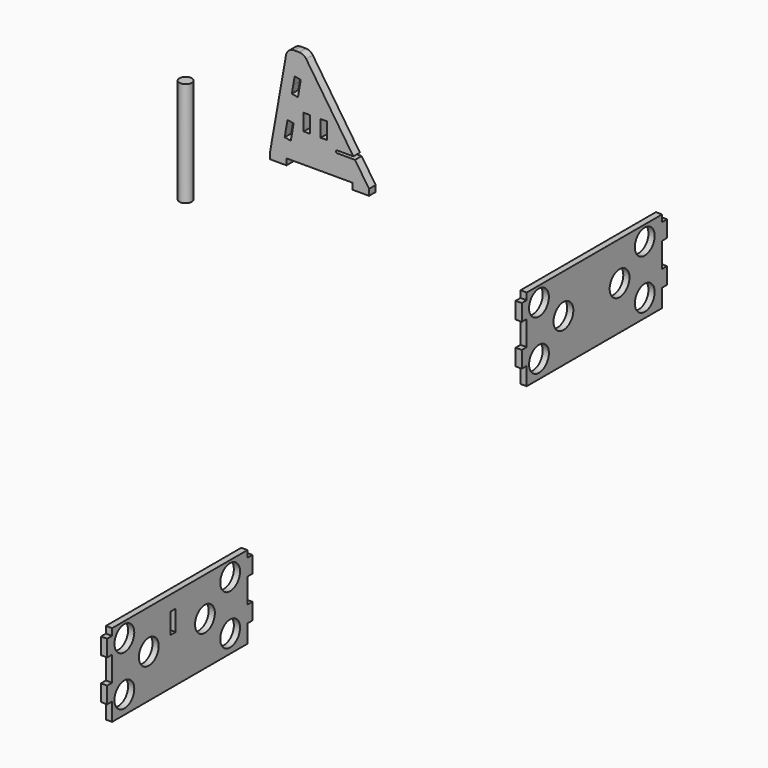
from build123d import *

# Parameters (mm, degrees)
F2_W     = 19.139648
F2_H     = 322.640807
F0_W     = 19.05
F0_H     = 50.8
F4_DEPTH = 25.4
F1_W     = 19.05
F1_H     = 25.4
F1_R     = 38.1
F1_H_2   = 63.5
F1_H_3   = 50.8
F5_DEPTH = 19.05


with BuildPart() as f3:
    # F2 (on Front) → F3 (revolve)
    with BuildSketch(Plane.XZ):
        with Locations((-1077.781737, 239.126637)):
            Rectangle(F2_W, F2_H)
    revolve(axis=Axis((-1068.211913, 0, 239.126638), (0, 0, -1)))


with BuildPart() as f4:
    # F0 (on Front) → F4 (new body)
    with BuildSketch(Plane.XZ):
        with BuildLine():
            Line((-737.51774, 288.290056), (-737.51774, 307.340056))
            Line((-737.51774, 307.340056), (-534.31774, 307.340056))
            Line((-534.31774, 307.340056), (-534.31774, 288.290056))
            Line((-534.31774, 288.290056), (-483.51774, 288.290056))
            Line((-483.51774, 288.290056), (-483.51774, 307.340056))
            Line((-483.51774, 307.340056), (-526.678775, 371.772796))
            Line((-526.678775, 371.772796), (-582.699424, 371.772796))
            ThreePointArc((-582.699424, 371.772796), (-584.495476, 372.516745), (-585.239424, 374.312796))
            Line((-585.239424, 374.312796), (-585.239424, 377.026416))
            ThreePointArc((-585.239424, 377.026416), (-584.495476, 378.822467), (-582.699424, 379.566416))
            Line((-582.699424, 379.566416), (-557.299424, 379.566416))
            Line((-557.299424, 379.566416), (-531.899424, 379.566416))
            Line((-531.899424, 379.566416), (-677.044472, 596.24549))
            ThreePointArc((-677.044472, 596.24549), (-686.186926, 604.517216), (-698.147378, 607.509459))
            Line((-698.147378, 607.509459), (-714.076645, 607.509459))
            ThreePointArc((-714.076645, 607.509459), (-730.40345, 601.566988), (-739.090762, 586.520123))
            Line((-739.090762, 586.520123), (-788.31774, 307.340056))
            Line((-788.31774, 307.340056), (-788.31774, 288.290056))
            Line((-788.31774, 288.290056), (-737.51774, 288.290056))
        make_face()
        Polygon((-734.393691, 412.640675), (-715.633104, 409.332677), (-724.454431, 359.304443), (-743.215019, 362.612441), align=None, mode=Mode.SUBTRACT)
        with Locations((-675.064775, 422.746406)):
            Rectangle(F0_W, F0_H, mode=Mode.SUBTRACT)
        with Locations((-622.994775, 422.746406)):
            Rectangle(F0_W, F0_H, mode=Mode.SUBTRACT)
        Polygon((-716.751037, 512.697143), (-712.340373, 537.71126), (-693.579785, 534.403262), (-702.401113, 484.375028), (-721.1617, 487.683026), align=None, mode=Mode.SUBTRACT)
    extrude(amount=F4_DEPTH)


with BuildPart() as f5:
    # F1 (on Right) → F5 (new body)
    with BuildSketch(Plane.YZ):
        with BuildLine():
            Line((473.575031, 177.8), (473.575031, 198.727619))
            Line((473.575031, 198.727619), (213.225031, 198.727619))
            Line((213.225031, 198.727619), (213.225031, 152.4))
            Line((213.225031, 152.4), (368.811731, 152.4))
            ThreePointArc((368.811731, 152.4), (406.911731, 190.5), (445.011731, 152.4))
            Line((445.011731, 152.4), (473.575031, 152.4))
            Line((473.575031, 152.4), (473.575031, 177.8))
        make_face()
        with BuildLine():
            Line((213.225031, 152.4), (213.225031, 198.727619))
            Line((213.225031, 198.727619), (-47.124969, 198.727619))
            Line((-47.124969, 198.727619), (-47.124969, 177.8))
            Line((-47.124969, 177.8), (-66.174969, 177.8))
            Line((-66.174969, 177.8), (-66.174969, 152.4))
            Line((-66.174969, 152.4), (-38.1, 152.4))
            ThreePointArc((-38.1, 152.4), (0, 190.5), (38.1, 152.4))
            Line((38.1, 152.4), (213.225031, 152.4))
        make_face()
        with Locations((483.100031, 165.1)):
            Rectangle(F1_W, F1_H)
        with BuildLine():
            Line((368.811731, 152.4), (213.225031, 152.4))
            Line((213.225031, 152.4), (213.225031, -55.272381))
            Line((213.225031, -55.272381), (473.575031, -55.272381))
            Line((473.575031, -55.272381), (473.575031, 0))
            Line((473.575031, 0), (492.625031, 0))
            Line((492.625031, 0), (492.625031, 50.8))
            Line((492.625031, 50.8), (473.575031, 50.8))
            Line((473.575031, 50.8), (473.575031, 127))
            Line((473.575031, 127), (473.575031, 152.4))
            Line((473.575031, 152.4), (445.011731, 152.4))
            ThreePointArc((445.011731, 152.4), (406.911731, 114.3), (368.811731, 152.4))
        make_face()
        with Locations((406.911731, 0)):
            Circle(F1_R, mode=Mode.SUBTRACT)
        with Locations((310.025126, 78.885317)):
            Circle(F1_R, mode=Mode.SUBTRACT)
        with BuildLine():
            Line((213.225031, -55.272381), (213.225031, 152.4))
            Line((213.225031, 152.4), (38.1, 152.4))
            ThreePointArc((38.1, 152.4), (0, 114.3), (-38.1, 152.4))
            Line((-38.1, 152.4), (-66.174969, 152.4))
            Line((-66.174969, 152.4), (-66.174969, 127))
            Line((-66.174969, 127), (-47.124969, 127))
            Line((-47.124969, 127), (-47.124969, 50.8))
            Line((-47.124969, 50.8), (-66.174969, 50.8))
            Line((-66.174969, 50.8), (-66.174969, 0))
            Line((-66.174969, 0), (-47.124969, 0))
            Line((-47.124969, 0), (-47.124969, -55.272381))
            Line((-47.124969, -55.272381), (213.225031, -55.272381))
        make_face()
        Circle(F1_R, mode=Mode.SUBTRACT)
        with Locations((94.07299, 77.718012)):
            Circle(F1_R, mode=Mode.SUBTRACT)
        with Locations((483.100031, 139.7)):
            Rectangle(F1_W, F1_H)
        Polygon((-1121.358874, -83.177725), (-1121.358874, -62.250106), (-1381.708874, -62.250106), (-1381.708874, -316.250106), (-1121.358874, -316.250106), (-1121.358874, -260.977725), (-1102.308874, -260.977725), (-1102.308874, -210.177725), (-1121.358874, -210.177725), (-1121.358874, -133.977725), align=None)
        with Locations((-1188.022175, -260.977725)):
            Circle(F1_R, mode=Mode.SUBTRACT)
        with Locations((-1284.90878, -182.092408)):
            Circle(F1_R, mode=Mode.SUBTRACT)
        with Locations((-1188.022175, -108.577725)):
            Circle(F1_R, mode=Mode.SUBTRACT)
        Polygon((-1381.708874, -316.250106), (-1381.708874, -62.250106), (-1642.058874, -62.250106), (-1642.058874, -83.177725), (-1661.108874, -83.177725), (-1661.108874, -133.977725), (-1642.058874, -133.977725), (-1642.058874, -210.177725), (-1661.108874, -210.177725), (-1661.108874, -260.977725), (-1642.058874, -260.977725), (-1642.058874, -316.250106), align=None)
        with Locations((-1594.933906, -260.977725)):
            Circle(F1_R, mode=Mode.SUBTRACT)
        with Locations((-1500.860915, -183.259713)):
            Circle(F1_R, mode=Mode.SUBTRACT)
        with Locations((-1407.108725, -140.32773)):
            Rectangle(F1_W, F1_H_2, mode=Mode.SUBTRACT)
        with Locations((-1594.933906, -108.577725)):
            Circle(F1_R, mode=Mode.SUBTRACT)
        with Locations((-1111.833874, -108.577725)):
            Rectangle(F1_W, F1_H_3)
    extrude(amount=F5_DEPTH)


solid = Compound([f3.part, f4.part, f5.part])
